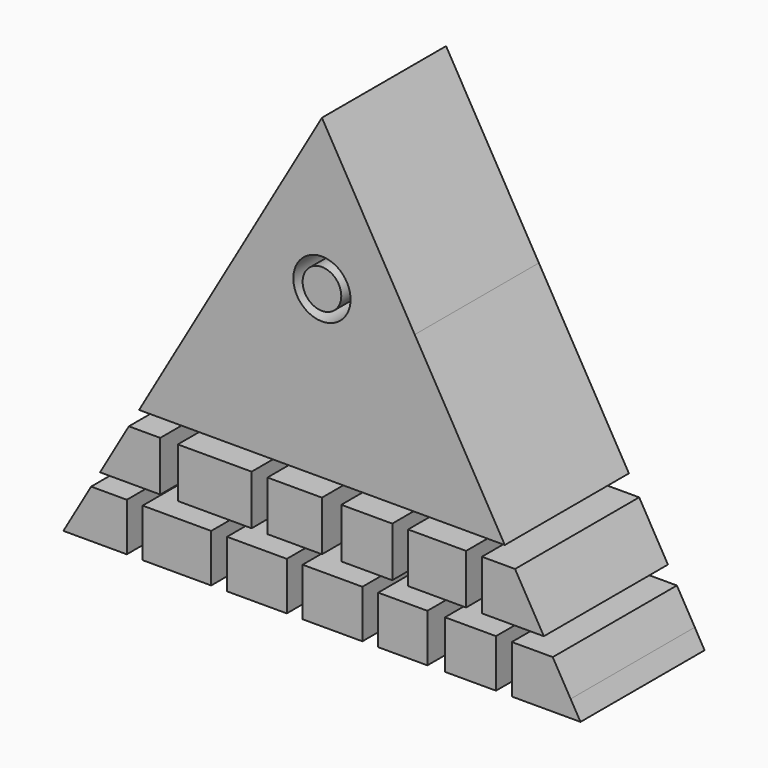
from build123d import *

# Parameters (mm, degrees)
F0_R     = 4.6851378816
F1_DEPTH = 25.4
F0_W     = 11.2244244665
F0_H     = 2.7910378677
F0_H_2   = 5.0737742207
F0_W_2   = 9.7853969783
F0_W_3   = 9.7853962798
F0_W_4   = 8.0585628748
F0_W_5   = 8.3463639021
F0_R_2   = 3.1658646185


with BuildPart() as f1:
    # F0 (on Front) → F1 (new body)
    with BuildSketch(Plane.XZ):
        with BuildLine():
            Line((15.1939415336, 46.9994731352), (0, 73.3161518387))
            Line((0, 73.3161518387), (-15.0500384588, 47.2487205721))
            add(Edge.make_bspline(
                [(15.1939415336, 46.9994731352), (0, 57.5611554086), (0, 57.5611554086), (-15.0500384588, 47.2487205721)],
                knots=[0, 0, 0, 0, 30.2450070271, 30.2450070271, 30.2450070271, 30.2450070271], degree=3))
        make_face()
        with BuildLine():
            add(Edge.make_bspline(
                [(-15.0500384588, 47.2487205721), (0.2878046944, 40.8684164286), (0.2878046944, 40.8684164286), (15.1939415336, 46.9994731352)],
                knots=[0, 0, 0, 0, 30.2450070271, 30.2450070271, 30.2450070271, 30.2450070271], degree=3))
            Line((-15.0500384588, 47.2487205721), (-29.9356807926, 21.4660317468))
            Line((-29.9356807926, 21.4660317468), (29.9356807926, 21.4660317468))
            Line((29.9356807926, 21.4660317468), (15.1939415336, 46.9994731352))
        make_face()
        with BuildLine():
            add(Edge.make_bspline(
                [(15.1939415336, 46.9994731352), (0, 57.5611554086), (0, 57.5611554086), (-15.0500384588, 47.2487205721)],
                knots=[0, 0, 0, 0, 30.2450070271, 30.2450070271, 30.2450070271, 30.2450070271], degree=3))
            add(Edge.make_bspline(
                [(-15.0500384588, 47.2487205721), (0.2878046944, 40.8684164286), (0.2878046944, 40.8684164286), (15.1939415336, 46.9994731352)],
                knots=[0, 0, 0, 0, 30.2450070271, 30.2450070271, 30.2450070271, 30.2450070271], degree=3))
        make_face()
        with Locations((0, 48.6391745508)):
            Circle(F0_R, mode=Mode.SUBTRACT)
    extrude(amount=F1_DEPTH)


with BuildPart() as f1b:
    # F0 (on Front) → F1, piece 2 (new body)
    with BuildSketch(Plane.XZ):
        Polygon((-31.946439296, 2.7910378677), (-40.7176935358, 2.7910378677), (-42.3291, 0), (-31.946439296, 0), align=None)
        Polygon((-31.946439296, 7.8648120884), (-37.7883486236, 7.8648120884), (-40.7176935358, 2.7910378677), (-31.946439296, 2.7910378677), align=None)
    extrude(amount=F1_DEPTH)


with BuildPart() as f1c:
    # F0 (on Front) → F1, piece 3 (new body)
    with BuildSketch(Plane.XZ):
        Polygon((42.3291, 0), (40.7176935358, 2.7910378677), (31.0830194503, 2.7910378677), (31.0830194503, 0), align=None)
        Polygon((40.7176935358, 2.7910378677), (37.7883486236, 7.8648120884), (31.0830194503, 7.8648120884), (31.0830194503, 2.7910378677), align=None)
    extrude(amount=F1_DEPTH)


with BuildPart() as f1d:
    # F0 (on Front) → F1, piece 4 (new body)
    with BuildSketch(Plane.XZ):
        with Locations((-23.7439749762, 1.3955189338)):
            Rectangle(F0_W, F0_H)
        with Locations((-23.7439749762, 5.327924978)):
            Rectangle(F0_W, F0_H_2)
    extrude(amount=F1_DEPTH)


with BuildPart() as f1e:
    # F0 (on Front) → F1, piece 5 (new body)
    with BuildSketch(Plane.XZ):
        with Locations((-10.6488130987, 1.3955189338)):
            Rectangle(F0_W_2, F0_H)
        with Locations((-10.6488130987, 5.327924978)):
            Rectangle(F0_W_2, F0_H_2)
    extrude(amount=F1_DEPTH)


with BuildPart() as f1f:
    # F0 (on Front) → F1, piece 6 (new body)
    with BuildSketch(Plane.XZ):
        with Locations((1.7268344527, 1.3955189338)):
            Rectangle(F0_W_3, F0_H)
        with Locations((1.7268344527, 5.327924978)):
            Rectangle(F0_W_3, F0_H_2)
    extrude(amount=F1_DEPTH)


with BuildPart() as f1g:
    # F0 (on Front) → F1, piece 7 (new body)
    with BuildSketch(Plane.XZ):
        with Locations((13.2390651852, 1.3955189338)):
            Rectangle(F0_W_4, F0_H)
        with Locations((13.2390651852, 5.327924978)):
            Rectangle(F0_W_4, F0_H_2)
    extrude(amount=F1_DEPTH)


with BuildPart() as f1h:
    # F0 (on Front) → F1, piece 8 (new body)
    with BuildSketch(Plane.XZ):
        with Locations((24.3195854127, 1.3955189338)):
            Rectangle(F0_W_5, F0_H)
        with Locations((24.3195854127, 5.327924978)):
            Rectangle(F0_W_5, F0_H_2)
    extrude(amount=F1_DEPTH)


with BuildPart() as f1i:
    # F0 (on Front) → F1, piece 9 (new body)
    with BuildSketch(Plane.XZ):
        Polygon((-26.4781303704, 18.5597488231), (-31.6136240209, 18.5597488231), (-36.3262589598, 10.3972256714), (-31.946439296, 10.3972256714), (-29.3561872095, 10.3972256714), (-26.4781303704, 10.3972256714), align=None)
    extrude(amount=F1_DEPTH)


with BuildPart() as f1j:
    # F0 (on Front) → F1, piece 10 (new body)
    with BuildSketch(Plane.XZ):
        Polygon((36.3262589598, 10.3972256714), (31.6136240209, 18.5597488231), (26.1903218925, 18.5597488231), (26.1903218925, 10.3972256714), (28.4927673638, 10.3972256714), (31.0830194503, 10.3972256714), align=None)
    extrude(amount=F1_DEPTH)


with BuildPart() as f1k:
    # F0 (on Front) → F1, piece 11 (new body)
    with BuildSketch(Plane.XZ):
        Polygon((-11.5122301504, 18.5597488231), (-23.6000716686, 18.5597488231), (-23.6000716686, 10.3972256714), (-18.131762743, 10.3972256714), (-15.5415115878, 10.3972256714), (-11.5122301504, 10.3972256714), align=None)
    extrude(amount=F1_DEPTH)


with BuildPart() as f1l:
    # F0 (on Front) → F1, piece 12 (new body)
    with BuildSketch(Plane.XZ):
        Polygon((0, 18.5597488231), (-8.9219789952, 18.5597488231), (-8.9219789952, 10.3972256714), (-5.7561146095, 10.3972256714), (-3.1658636872, 10.3972256714), (0, 10.3972256714), align=None)
    extrude(amount=F1_DEPTH)


with BuildPart() as f1m:
    # F0 (on Front) → F1, piece 13 (new body)
    with BuildSketch(Plane.XZ):
        Polygon((11.5122292191, 10.3972256714), (11.5122292191, 18.5597488231), (3.1658646185, 18.5597488231), (3.1658646185, 10.3972256714), (6.6195325926, 10.3972256714), (9.2097837478, 10.3972256714), align=None)
    extrude(amount=F1_DEPTH)


with BuildPart() as f1n:
    # F0 (on Front) → F1, piece 14 (new body)
    with BuildSketch(Plane.XZ):
        Polygon((23.6000716686, 10.3972256714), (23.6000716686, 18.5597488231), (14.1024803743, 18.5597488231), (14.1024803743, 10.3972256714), (17.2683466226, 10.3972256714), (20.1464034617, 10.3972256714), align=None)
    extrude(amount=F1_DEPTH)


with BuildPart() as f1o:
    # F0 (on Front) → F1, piece 15 (new body)
    with BuildSketch(Plane.XZ):
        with Locations((0, 48.6391745508)):
            Circle(F0_R_2)
    extrude(amount=F1_DEPTH)


solid = Compound([f1.part, f1b.part, f1c.part, f1d.part, f1e.part, f1f.part, f1g.part, f1h.part, f1i.part, f1j.part, f1k.part, f1l.part, f1m.part, f1n.part, f1o.part])
